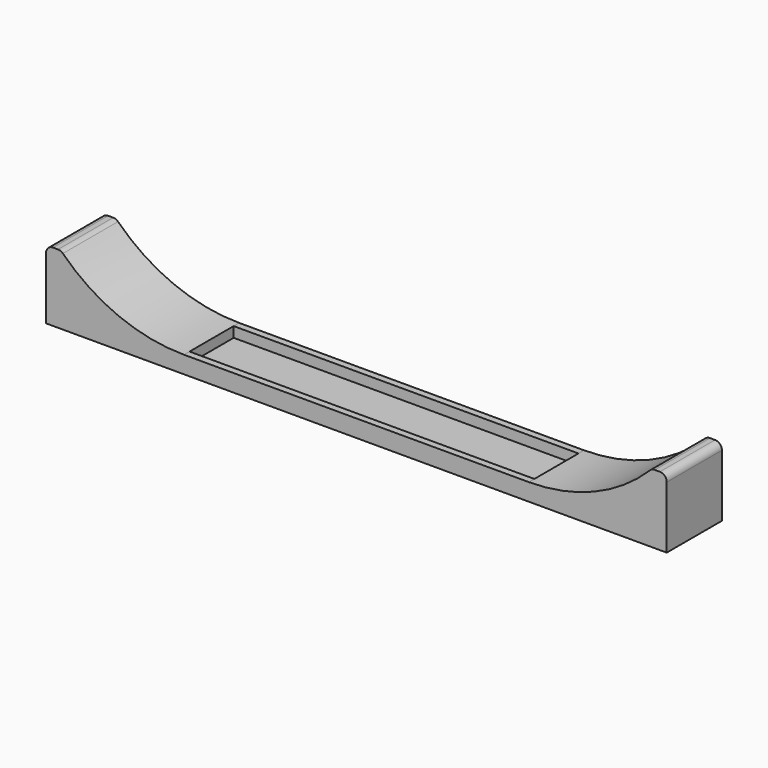
from build123d import *

# Parameters (mm, degrees)
F0_W     = 180
F0_H     = 20
F1_DEPTH = 20
F3_DEPTH = 25
F4_R     = 2
F5_W     = 100
F5_H     = 16
F6_DEPTH = 3


with BuildPart() as f1:
    # F0 (on Front) → F1 (new body)
    with BuildSketch(Plane.XZ):
        with Locations((90, 10)):
            Rectangle(F0_W, F0_H)
    extrude(amount=-F1_DEPTH)

    # F2 (on face) → F3 (cut)
    with BuildSketch(Plane.XZ):
        with BuildLine():
            Line((75.7071421427, 20), (4.2928578573, 20))
            ThreePointArc((4.2928578573, 20), (20.635083269, 8.9022777135), (40, 5))
            ThreePointArc((40, 5), (59.364916731, 8.9022777135), (75.7071421427, 20))
        make_face()
        with BuildLine():
            Line((175.7071421427, 20), (104.2928578573, 20))
            ThreePointArc((104.2928578573, 20), (120.635083269, 8.9022777135), (140, 5))
            ThreePointArc((140, 5), (159.364916731, 8.9022777135), (175.7071421427, 20))
        make_face()
        with BuildLine():
            Line((104.2928578573, 20), (75.7071421427, 20))
            ThreePointArc((75.7071421427, 20), (59.364916731, 8.9022777135), (40, 5))
            Line((40, 5), (140, 5))
            ThreePointArc((140, 5), (120.635083269, 8.9022777135), (104.2928578573, 20))
        make_face()
    extrude(amount=-F3_DEPTH, mode=Mode.SUBTRACT)

    # F4
    f4_edges = [f1.edges().sort_by_distance(p)[0] for p in [
        (0, 10, 20),
        (4.292858, 10, 20),
        (175.707142, 10, 20),
        (180, 10, 20),
    ]]
    fillet(f4_edges, radius=F4_R)

    # F5 (on face) → F6 (cut)
    with BuildSketch(Plane.XY.offset(5)):
        with Locations((90, 10)):
            Rectangle(F5_W, F5_H)
    extrude(amount=-F6_DEPTH, mode=Mode.SUBTRACT)


solid = f1.part
